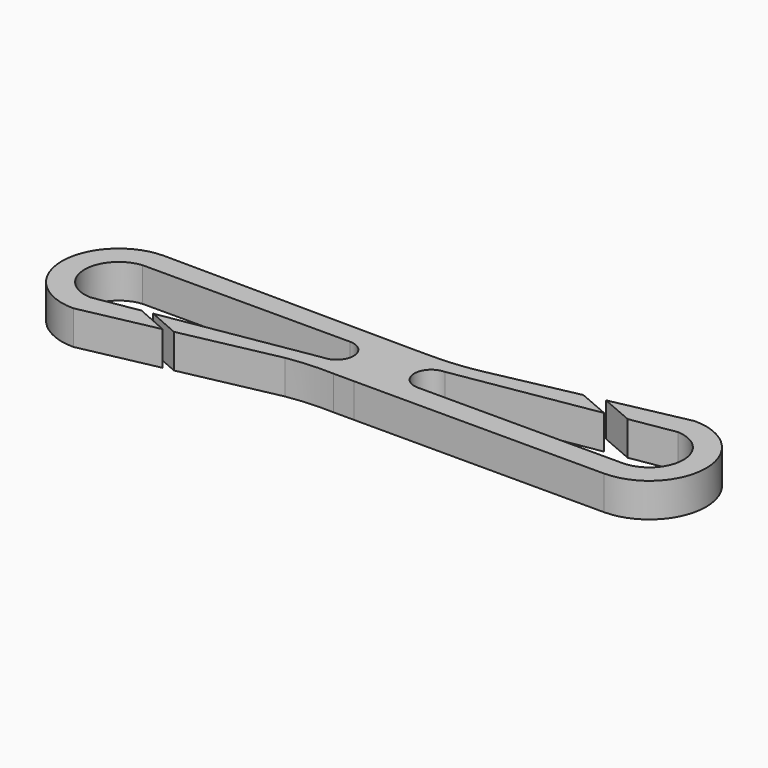
from build123d import *

# Parameters (mm, degrees)
F1_DEPTH = 3


with BuildPart() as f1:
    # F0 (on Top) → F1 (new body)
    with BuildSketch(Plane.XY):
        with BuildLine():
            Line((-1.842669, 0), (0, 0))
            Line((0, 0), (22, 0.006731))
            ThreePointArc((22, 0.006731), (27, 5.006731), (22, 10.006731))
            Line((22, 10.006731), (15.296504, 8.610079))
            Line((15.296504, 8.610079), (18.214144, 7.357785))
            Line((18.214144, 7.357785), (22.113447, 8.004586))
            ThreePointArc((22.113447, 8.004586), (24.99974, 5.046211), (22.192303, 2.012901))
            Line((22.192303, 2.012901), (4, 2))
            ThreePointArc((4, 2), (2.5, 3.5), (4, 5))
            Line((4, 5), (16.385479, 7.054453))
            Line((16.385479, 7.054453), (13.589655, 8.254462))
            Line((13.589655, 8.254462), (6.018003, 6.676932))
            ThreePointArc((6.018003, 6.676932), (3.989138, 6.361876), (1.938663, 6.256487))
            Line((1.938663, 6.256487), (0, 6.256487))
            Line((0, 6.256487), (-21.891119, 6.424784))
            ThreePointArc((-21.891119, 6.424784), (-26.891119, 1.424784), (-21.891119, -3.575216))
            Line((-21.891119, -3.575216), (-15.138226, -2.168272))
            Line((-15.138226, -2.168272), (-18.000183, -0.911911))
            Line((-18.000183, -0.911911), (-21.994491, -1.573435))
            ThreePointArc((-21.994491, -1.573435), (-24.889835, 1.337002), (-22.169698, 4.411821))
            Line((-22.169698, 4.411821), (-3.891119, 4.424784))
            ThreePointArc((-3.891119, 4.424784), (-2.391119, 2.924784), (-3.891119, 1.424784))
            Line((-3.891119, 1.424784), (-17.097019, -0.762332))
            Line((-17.097019, -0.762332), (-14.294679, -1.992521))
            Line((-14.294679, -1.992521), (-5.909122, -0.245416))
            ThreePointArc((-5.909122, -0.245416), (-3.882161, -0.0189), (-1.842669, 0))
        make_face()
    extrude(amount=F1_DEPTH)


solid = f1.part
